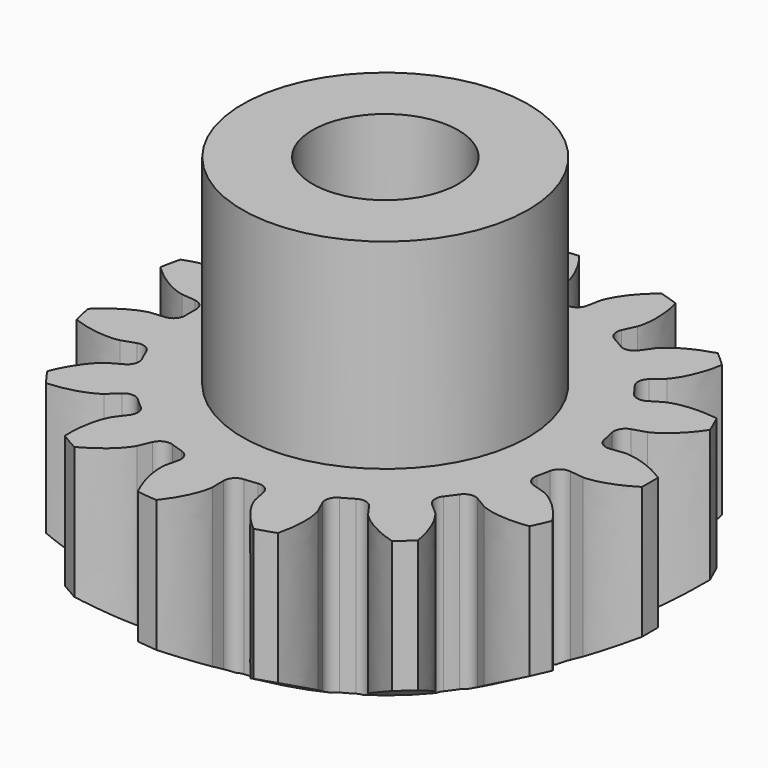
from build123d import *

# Parameters (mm, degrees)
PAD_DEPTH       = 6
SKETCH008_R     = 2.6
POCKET005_DEPTH = 10
SKETCH009_R     = 5
SKETCH009_R_2   = 2.55
PAD007_DEPTH    = 7


with BuildPart() as part:
    # InvoluteGear → Pad (new body)
    with BuildSketch(Plane.XY):
        with BuildLine():
            Line((7.158149, -0.860395), (7.64458, -0.918067))
            add(Edge.make_bspline(
                [(7.64458, -0.918067), (7.723106, -0.920551), (8.037619, -0.919454), (8.590539, -0.778166), (9.258058, -0.35636)],
                knots=[0, 0, 0, 0, 0, 1, 1, 1, 1, 1], degree=4))
            ThreePointArc((9.258058, -0.35636), (9.264914, 0), (9.258058, 0.35636))
            add(Edge.make_bspline(
                [(9.258058, 0.35636), (8.590539, 0.778166), (8.037619, 0.919454), (7.723106, 0.920551), (7.64458, 0.918067)],
                knots=[0, 0, 0, 0, 0, 1, 1, 1, 1, 1], degree=4))
            Line((7.64458, 0.918067), (7.158149, 0.860395))
            ThreePointArc((7.158149, 0.860395), (6.866348, 0.937564), (6.70706, 1.193944))
            ThreePointArc((6.70706, 1.193944), (6.663631, 1.416398), (6.612825, 1.637285))
            ThreePointArc((6.612825, 1.637285), (6.654062, 1.936288), (6.889249, 2.125471))
            Line((6.889249, 2.125471), (7.357083, 2.270635))
            add(Edge.make_bspline(
                [(7.357083, 2.270635), (7.42983, 2.300305), (7.716706, 2.429231), (8.164356, 2.783197), (8.602602, 3.44004)],
                knots=[0, 0, 0, 0, 0, 1, 1, 1, 1, 1], degree=4))
            ThreePointArc((8.602602, 3.44004), (8.46392, 3.76838), (8.312712, 4.091143))
            add(Edge.make_bspline(
                [(8.312712, 4.091143), (7.531339, 4.204977), (6.968755, 4.109157), (6.680986, 3.982236), (6.61026, 3.948027)],
                knots=[0, 0, 0, 0, 0, 1, 1, 1, 1, 1], degree=4))
            Line((6.61026, 3.948027), (6.18934, 3.697492))
            ThreePointArc((6.18934, 3.697492), (5.891379, 3.649303), (5.641584, 3.818729))
            ThreePointArc((5.641584, 3.818729), (5.511428, 4.004287), (5.375172, 4.185413))
            ThreePointArc((5.375172, 4.185413), (5.291229, 4.475338), (5.429135, 4.743824))
            Line((5.429135, 4.743824), (5.797479, 5.066724))
            add(Edge.make_bspline(
                [(5.797479, 5.066724), (5.851869, 5.123417), (6.061504, 5.35788), (6.326482, 5.86332), (6.459677, 6.641627)],
                knots=[0, 0, 0, 0, 0, 1, 1, 1, 1, 1], degree=4))
            ThreePointArc((6.459677, 6.641627), (6.199438, 6.885173), (5.930023, 7.118529))
            add(Edge.make_bspline(
                [(5.930023, 7.118529), (5.169903, 6.904709), (4.694929, 6.58835), (4.483663, 6.355355), (4.432966, 6.295337)],
                knots=[0, 0, 0, 0, 0, 1, 1, 1, 1, 1], degree=4))
            Line((4.432966, 6.295337), (4.150338, 5.895258))
            ThreePointArc((4.150338, 5.895258), (3.897737, 5.730044), (3.600626, 5.783221))
            ThreePointArc((3.600626, 5.783221), (3.40625, 5.899798), (3.208103, 6.009844))
            ThreePointArc((3.208103, 6.009844), (3.013495, 6.240561), (3.030274, 6.541927))
            Line((3.030274, 6.541927), (3.235439, 6.98673))
            add(Edge.make_bspline(
                [(3.235439, 6.98673), (3.262067, 7.060644), (3.358213, 7.360103), (3.394702, 7.929621), (3.199816, 8.694815)],
                knots=[0, 0, 0, 0, 0, 1, 1, 1, 1, 1], degree=4))
            ThreePointArc((3.199816, 8.694815), (2.863016, 8.811457), (2.521979, 8.915058))
            add(Edge.make_bspline(
                [(2.521979, 8.915058), (1.914543, 8.410554), (1.609308, 7.928357), (1.511075, 7.629576), (1.489172, 7.554126)],
                knots=[0, 0, 0, 0, 0, 1, 1, 1, 1, 1], degree=4))
            Line((1.489172, 7.554126), (1.393705, 7.073681))
            ThreePointArc((1.393705, 7.073681), (1.230142, 6.820008), (0.937088, 6.747742))
            ThreePointArc((0.937088, 6.747742), (0.7121, 6.77518), (0.486324, 6.795119))
            ThreePointArc((0.486324, 6.795119), (0.214699, 6.926735), (0.107452, 7.208872))
            Line((0.107452, 7.208872), (0.113961, 7.698667))
            add(Edge.make_bspline(
                [(0.113961, 7.698667), (0.108224, 7.777021), (0.074257, 8.089697), (-0.124053, 8.624819), (-0.613323, 9.244591)],
                knots=[0, 0, 0, 0, 0, 1, 1, 1, 1, 1], degree=4))
            ThreePointArc((-0.613323, 9.244591), (-0.968447, 9.21416), (-1.322138, 9.170092))
            add(Edge.make_bspline(
                [(-1.322138, 9.170092), (-1.671859, 8.462138), (-1.754577, 7.897479), (-1.722793, 7.584574), (-1.712114, 7.506739)],
                knots=[0, 0, 0, 0, 0, 1, 1, 1, 1, 1], degree=4))
            Line((-1.712114, 7.506739), (-1.603912, 7.029))
            ThreePointArc((-1.603912, 7.029), (-1.650157, 6.730731), (-1.888482, 6.545517))
            ThreePointArc((-1.888482, 6.545517), (-2.105178, 6.479073), (-2.319545, 6.405456))
            ThreePointArc((-2.319545, 6.405456), (-2.621219, 6.415214), (-2.83395, 6.629336))
            Line((-2.83395, 6.629336), (-3.027221, 7.079434))
            add(Edge.make_bspline(
                [(-3.027221, 7.079434), (-3.064332, 7.148681), (-3.222539, 7.420509), (-3.621358, 7.828708), (-4.320412, 8.195894)],
                knots=[0, 0, 0, 0, 0, 1, 1, 1, 1, 1], degree=4))
            ThreePointArc((-4.320412, 8.195894), (-4.632457, 8.023651), (-4.937646, 7.839534))
            add(Edge.make_bspline(
                [(-4.937646, 7.839534), (-4.969181, 7.050542), (-4.81508, 6.501055), (-4.658774, 6.22813), (-4.617359, 6.161368)],
                knots=[0, 0, 0, 0, 0, 1, 1, 1, 1, 1], degree=4))
            Line((-4.617359, 6.161368), (-4.324199, 5.768941))
            ThreePointArc((-4.324199, 5.768941), (-4.245128, 5.477649), (-4.387515, 5.211513))
            ThreePointArc((-4.387515, 5.211513), (-4.558452, 5.062674), (-4.724343, 4.908232))
            ThreePointArc((-4.724343, 4.908232), (-5.003906, 4.794443), (-5.285336, 4.903529))
            Line((-5.285336, 4.903529), (-5.644969, 5.236103))
            add(Edge.make_bspline(
                [(-5.644969, 5.236103), (-5.707037, 5.284269), (-5.962129, 5.468248), (-6.492498, 5.678941), (-7.280463, 5.730051)],
                knots=[0, 0, 0, 0, 0, 1, 1, 1, 1, 1], degree=4))
            ThreePointArc((-7.280463, 5.730051), (-7.495473, 5.44578), (-7.69939, 5.153449))
            add(Edge.make_bspline(
                [(-7.69939, 5.153449), (-7.407286, 4.419843), (-7.043012, 3.98054), (-6.78921, 3.794786), (-6.724222, 3.75064)],
                knots=[0, 0, 0, 0, 0, 1, 1, 1, 1, 1], degree=4))
            Line((-6.724222, 3.75064), (-6.296792, 3.51138))
            ThreePointArc((-6.296792, 3.51138), (-6.106078, 3.277433), (-6.127908, 2.97639))
            ThreePointArc((-6.127908, 2.97639), (-6.223528, 2.770893), (-6.31226, 2.562329))
            ThreePointArc((-6.31226, 2.562329), (-6.521371, 2.34467), (-6.82284, 2.329857))
            Line((-6.82284, 2.329857), (-7.286651, 2.487402))
            add(Edge.make_bspline(
                [(-7.286651, 2.487402), (-7.362944, 2.506159), (-7.670812, 2.570476), (-8.241025, 2.547234), (-8.981656, 2.273431)],
                knots=[0, 0, 0, 0, 0, 1, 1, 1, 1, 1], degree=4))
            ThreePointArc((-8.981656, 2.273431), (-9.062454, 1.926284), (-9.129839, 1.576286))
            add(Edge.make_bspline(
                [(-9.129839, 1.576286), (-8.564605, 1.024913), (-8.053143, 0.771753), (-7.745731, 0.705289), (-7.668405, 0.691393)],
                knots=[0, 0, 0, 0, 0, 1, 1, 1, 1, 1], degree=4))
            Line((-7.668405, 0.691393), (-7.180612, 0.646669))
            ThreePointArc((-7.180612, 0.646669), (-6.911232, 0.510518), (-6.80873, 0.226623))
            ThreePointArc((-6.80873, 0.226623), (-6.8125, 0), (-6.80873, -0.226623))
            ThreePointArc((-6.80873, -0.226623), (-6.911232, -0.510518), (-7.180612, -0.646669))
            Line((-7.180612, -0.646669), (-7.668405, -0.691393))
            add(Edge.make_bspline(
                [(-7.668405, -0.691393), (-7.745731, -0.705289), (-8.053143, -0.771753), (-8.564605, -1.024913), (-9.129839, -1.576286)],
                knots=[0, 0, 0, 0, 0, 1, 1, 1, 1, 1], degree=4))
            ThreePointArc((-9.129839, -1.576286), (-9.062454, -1.926284), (-8.981656, -2.273431))
            add(Edge.make_bspline(
                [(-8.981656, -2.273431), (-8.241025, -2.547234), (-7.670812, -2.570476), (-7.362944, -2.506159), (-7.286651, -2.487402)],
                knots=[0, 0, 0, 0, 0, 1, 1, 1, 1, 1], degree=4))
            Line((-7.286651, -2.487402), (-6.82284, -2.329857))
            ThreePointArc((-6.82284, -2.329857), (-6.521371, -2.34467), (-6.31226, -2.562329))
            ThreePointArc((-6.31226, -2.562329), (-6.223528, -2.770893), (-6.127908, -2.97639))
            ThreePointArc((-6.127908, -2.97639), (-6.106078, -3.277433), (-6.296792, -3.51138))
            Line((-6.296792, -3.51138), (-6.724222, -3.75064))
            add(Edge.make_bspline(
                [(-6.724222, -3.75064), (-6.78921, -3.794786), (-7.043012, -3.98054), (-7.407286, -4.419843), (-7.69939, -5.153449)],
                knots=[0, 0, 0, 0, 0, 1, 1, 1, 1, 1], degree=4))
            ThreePointArc((-7.69939, -5.153449), (-7.495473, -5.44578), (-7.280463, -5.730051))
            add(Edge.make_bspline(
                [(-7.280463, -5.730051), (-6.492498, -5.678941), (-5.962129, -5.468248), (-5.707037, -5.284269), (-5.644969, -5.236103)],
                knots=[0, 0, 0, 0, 0, 1, 1, 1, 1, 1], degree=4))
            Line((-5.644969, -5.236103), (-5.285336, -4.903529))
            ThreePointArc((-5.285336, -4.903529), (-5.003906, -4.794443), (-4.724343, -4.908232))
            ThreePointArc((-4.724343, -4.908232), (-4.558452, -5.062674), (-4.387515, -5.211513))
            ThreePointArc((-4.387515, -5.211513), (-4.245128, -5.477649), (-4.324199, -5.768941))
            Line((-4.324199, -5.768941), (-4.617359, -6.161368))
            add(Edge.make_bspline(
                [(-4.617359, -6.161368), (-4.658774, -6.22813), (-4.81508, -6.501055), (-4.969181, -7.050542), (-4.937646, -7.839534)],
                knots=[0, 0, 0, 0, 0, 1, 1, 1, 1, 1], degree=4))
            ThreePointArc((-4.937646, -7.839534), (-4.632457, -8.023651), (-4.320412, -8.195894))
            add(Edge.make_bspline(
                [(-4.320412, -8.195894), (-3.621358, -7.828708), (-3.222539, -7.420509), (-3.064332, -7.148681), (-3.027221, -7.079434)],
                knots=[0, 0, 0, 0, 0, 1, 1, 1, 1, 1], degree=4))
            Line((-3.027221, -7.079434), (-2.83395, -6.629336))
            ThreePointArc((-2.83395, -6.629336), (-2.621219, -6.415214), (-2.319545, -6.405456))
            ThreePointArc((-2.319545, -6.405456), (-2.105178, -6.479073), (-1.888482, -6.545517))
            ThreePointArc((-1.888482, -6.545517), (-1.650157, -6.730731), (-1.603912, -7.029))
            Line((-1.603912, -7.029), (-1.712114, -7.506739))
            add(Edge.make_bspline(
                [(-1.712114, -7.506739), (-1.722793, -7.584574), (-1.754577, -7.897479), (-1.671859, -8.462138), (-1.322138, -9.170092)],
                knots=[0, 0, 0, 0, 0, 1, 1, 1, 1, 1], degree=4))
            ThreePointArc((-1.322138, -9.170092), (-0.968447, -9.21416), (-0.613323, -9.244591))
            add(Edge.make_bspline(
                [(-0.613323, -9.244591), (-0.124053, -8.624819), (0.074257, -8.089697), (0.108224, -7.777021), (0.113961, -7.698667)],
                knots=[0, 0, 0, 0, 0, 1, 1, 1, 1, 1], degree=4))
            Line((0.113961, -7.698667), (0.107452, -7.208872))
            ThreePointArc((0.107452, -7.208872), (0.214699, -6.926735), (0.486324, -6.795119))
            ThreePointArc((0.486324, -6.795119), (0.7121, -6.77518), (0.937088, -6.747742))
            ThreePointArc((0.937088, -6.747742), (1.230142, -6.820008), (1.393705, -7.073681))
            Line((1.393705, -7.073681), (1.489172, -7.554126))
            add(Edge.make_bspline(
                [(1.489172, -7.554126), (1.511075, -7.629576), (1.609308, -7.928357), (1.914543, -8.410554), (2.521979, -8.915058)],
                knots=[0, 0, 0, 0, 0, 1, 1, 1, 1, 1], degree=4))
            ThreePointArc((2.521979, -8.915058), (2.863016, -8.811457), (3.199816, -8.694815))
            add(Edge.make_bspline(
                [(3.199816, -8.694815), (3.394702, -7.929621), (3.358213, -7.360103), (3.262067, -7.060644), (3.235439, -6.98673)],
                knots=[0, 0, 0, 0, 0, 1, 1, 1, 1, 1], degree=4))
            Line((3.235439, -6.98673), (3.030274, -6.541927))
            ThreePointArc((3.030274, -6.541927), (3.013495, -6.240561), (3.208103, -6.009844))
            ThreePointArc((3.208103, -6.009844), (3.40625, -5.899798), (3.600626, -5.783221))
            ThreePointArc((3.600626, -5.783221), (3.897737, -5.730044), (4.150338, -5.895258))
            Line((4.150338, -5.895258), (4.432966, -6.295337))
            add(Edge.make_bspline(
                [(4.432966, -6.295337), (4.483663, -6.355355), (4.694929, -6.58835), (5.169903, -6.904709), (5.930023, -7.118529)],
                knots=[0, 0, 0, 0, 0, 1, 1, 1, 1, 1], degree=4))
            ThreePointArc((5.930023, -7.118529), (6.199438, -6.885173), (6.459677, -6.641627))
            add(Edge.make_bspline(
                [(6.459677, -6.641627), (6.326482, -5.86332), (6.061504, -5.35788), (5.851869, -5.123417), (5.797479, -5.066724)],
                knots=[0, 0, 0, 0, 0, 1, 1, 1, 1, 1], degree=4))
            Line((5.797479, -5.066724), (5.429135, -4.743824))
            ThreePointArc((5.429135, -4.743824), (5.291229, -4.475338), (5.375172, -4.185413))
            ThreePointArc((5.375172, -4.185413), (5.511428, -4.004287), (5.641584, -3.818729))
            ThreePointArc((5.641584, -3.818729), (5.891379, -3.649303), (6.18934, -3.697492))
            Line((6.18934, -3.697492), (6.61026, -3.948027))
            add(Edge.make_bspline(
                [(6.61026, -3.948027), (6.680986, -3.982236), (6.968755, -4.109157), (7.531339, -4.204977), (8.312712, -4.091143)],
                knots=[0, 0, 0, 0, 0, 1, 1, 1, 1, 1], degree=4))
            ThreePointArc((8.312712, -4.091143), (8.46392, -3.76838), (8.602602, -3.44004))
            add(Edge.make_bspline(
                [(8.602602, -3.44004), (8.164356, -2.783197), (7.716706, -2.429231), (7.42983, -2.300305), (7.357083, -2.270635)],
                knots=[0, 0, 0, 0, 0, 1, 1, 1, 1, 1], degree=4))
            Line((7.357083, -2.270635), (6.889249, -2.125471))
            ThreePointArc((6.889249, -2.125471), (6.654062, -1.936288), (6.612825, -1.637285))
            ThreePointArc((6.612825, -1.637285), (6.663631, -1.416398), (6.70706, -1.193944))
            ThreePointArc((6.70706, -1.193944), (6.866348, -0.937564), (7.158149, -0.860395))
        make_face()
    extrude(amount=PAD_DEPTH)

    # Sketch008 → Pocket005 (cut)
    with BuildSketch(Plane.XY):
        Circle(SKETCH008_R)
    extrude(amount=POCKET005_DEPTH, mode=Mode.SUBTRACT)

    # Sketch009 (on Face5 of Pocket005) → Pad007 (join)
    with BuildSketch(Plane.XY.offset(6)):
        Circle(SKETCH009_R)
        Circle(SKETCH009_R_2, mode=Mode.SUBTRACT)
    extrude(amount=PAD007_DEPTH)

    # Sketch025 → Groove002 (revolve, cut)
    with BuildSketch(Plane.XZ):
        Polygon((9.36, 0), (9.36, 1.437602), (6.87, 0), (8.25, 0), align=None)
    revolve(axis=Axis((0, 0, 0), (0, 0, 1)), mode=Mode.SUBTRACT)


solid = part.part
